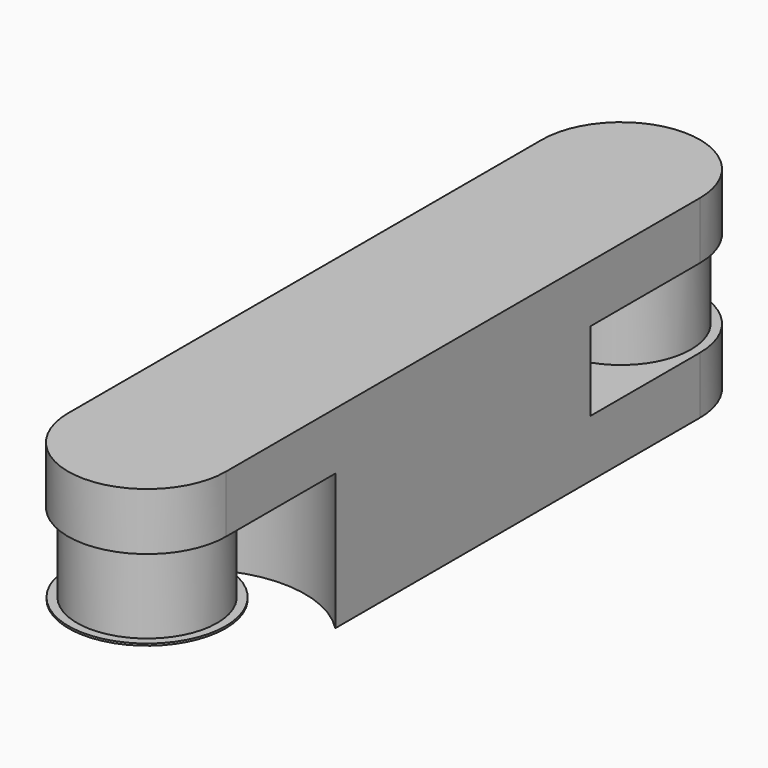
from build123d import *

# Parameters (mm, degrees)
F0_W     = 400
F0_H     = 1500
F1_DEPTH = 145
F2_R     = 177.5
F3_DEPTH = 200
F5_DEPTH = 145
F6_R     = 199
F7_DEPTH = 5


with BuildPart() as f1:
    # F0 (on Top) → F1 (new body)
    with BuildSketch(Plane.XY):
        with BuildLine():
            ThreePointArc((200, 750), (0, 950), (-200, 750))
            Line((-200, 750), (200, 750))
        make_face()
        Rectangle(F0_W, F0_H)
        with BuildLine():
            Line((200, -750), (-200, -750))
            ThreePointArc((-200, -750), (0, -950), (200, -750))
        make_face()
    extrude(amount=F1_DEPTH)

    # F2 (on face) → F3 (join)
    with BuildSketch(Plane(origin=(0, 0, 0), x_dir=(1, 0, 0), z_dir=(0, 0, -1))):
        with Locations((0, 750)):
            Circle(F2_R)
        with Locations((0, -750)):
            Circle(F2_R)
        with BuildLine():
            ThreePointArc((200, 404.203802), (0.034243, 320.081481), (-200, 404.040821))
            Line((-200, 404.040821), (-200, -404.040821))
            ThreePointArc((-200, -404.040821), (0, -320), (200, -404.040821))
            Line((200, -404.040821), (200, 404.203802))
        make_face()
    extrude(amount=F3_DEPTH)

    # F4 (on face) → F5 (join)
    with BuildSketch(Plane(origin=(0, 0, -200), x_dir=(1, 0, 0), z_dir=(0, 0, -1))):
        with BuildLine():
            Line((-200, 404.040821), (-200, -750))
            Line((-200, -750), (200, -750))
            Line((200, -750), (200, 404.203802))
            ThreePointArc((200, 404.203802), (0.034243, 320.081481), (-200, 404.040821))
        make_face()
        with BuildLine():
            Line((200, -750), (-200, -750))
            ThreePointArc((-200, -750), (0, -950), (200, -750))
        make_face()
    extrude(amount=F5_DEPTH)

    # F6 (on face) → F7 (join)
    with BuildSketch(Plane(origin=(0, 0, -200), x_dir=(1, 0, 0), z_dir=(0, 0, -1))):
        with Locations((0, 750)):
            Circle(F6_R)
    extrude(amount=F7_DEPTH)


solid = f1.part
